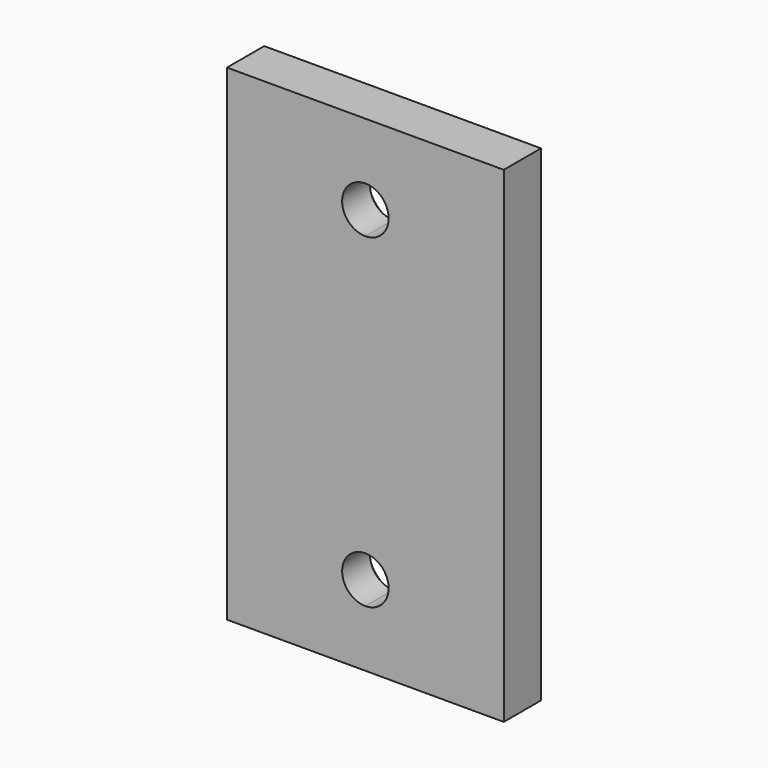
from build123d import *

# Parameters (mm, degrees)
F1_DEPTH = 4
F2_R     = 3
F2_R_2   = 2
F3_DEPTH = 1


with BuildPart() as f1:
    # F0 (on Front) → F1 (new body)
    with BuildSketch(Plane.XZ):
        with BuildLine():
            Line((11.9, -20.9), (11.9, 20.9))
            Line((11.9, 20.9), (0, 20.9))
            Line((0, 20.9), (0, 16))
            ThreePointArc((0, 16), (1.4142135624, 15.4142135624), (2, 14))
            ThreePointArc((2, 14), (1.4142135624, 12.5857864376), (0, 12))
            Line((0, 12), (0, 0))
            Line((0, 0), (0, -12))
            ThreePointArc((0, -12), (1.4142135624, -12.5857864376), (2, -14))
            ThreePointArc((2, -14), (1.4142135624, -15.4142135624), (0, -16))
            Line((0, -16), (0, -20.9))
            Line((0, -20.9), (11.9, -20.9))
        make_face()
        with BuildLine():
            Line((0, 16), (0, 20.9))
            Line((0, 20.9), (-11.9, 20.9))
            Line((-11.9, 20.9), (-11.9, -20.9))
            Line((-11.9, -20.9), (0, -20.9))
            Line((0, -20.9), (0, -16))
            ThreePointArc((0, -16), (-2, -14), (0, -12))
            Line((0, -12), (0, 0))
            Line((0, 0), (0, 12))
            ThreePointArc((0, 12), (-2, 14), (0, 16))
        make_face()
    extrude(amount=F1_DEPTH)

    # F2 (on face) → F3 (cut)
    with BuildSketch(Plane(origin=(0, 0, 0), x_dir=(-1, 0, 0), z_dir=(0, 1, 0))):
        with Locations((0, 14)):
            Circle(F2_R)
        with Locations((0, 14)):
            Circle(F2_R_2, mode=Mode.SUBTRACT)
        with Locations((0, -14)):
            Circle(F2_R)
        with Locations((0, -14)):
            Circle(F2_R_2, mode=Mode.SUBTRACT)
    extrude(amount=-F3_DEPTH, mode=Mode.SUBTRACT)


solid = f1.part
